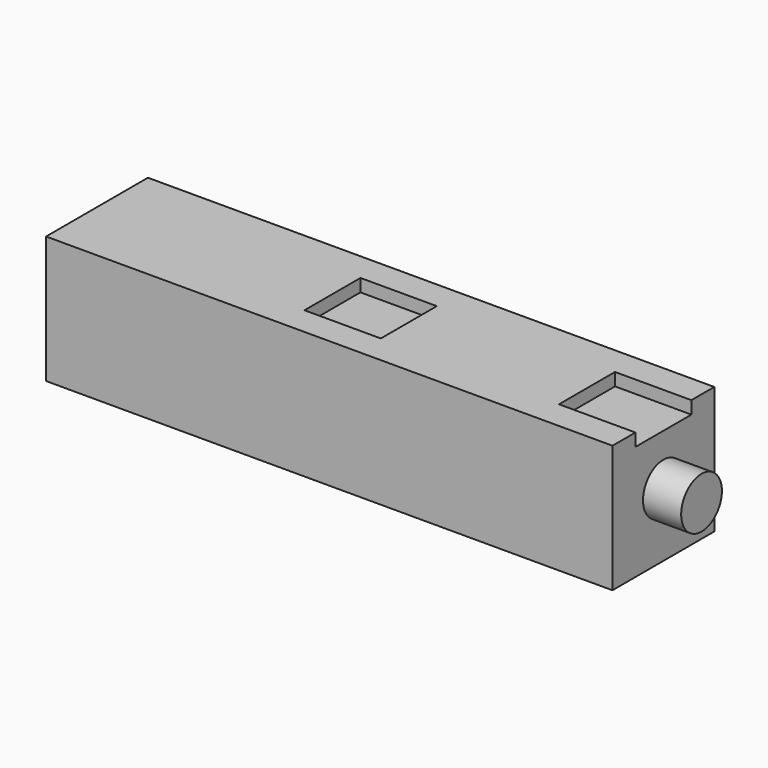
from build123d import *

# Parameters (mm, degrees)
SKETCH_W        = 95
SKETCH_H        = 20
PAD_DEPTH       = 20
SKETCH001_W     = 20
SKETCH001_H     = 20
SKETCH001_R     = 4
POCKET_DEPTH    = 6
SKETCH003_W     = 12
SKETCH003_H     = 11
POCKET001_DEPTH = 2


with BuildPart() as part:
    # Sketch → Pad (new body)
    with BuildSketch(Plane.XY):
        Rectangle(SKETCH_W, SKETCH_H)
    extrude(amount=-PAD_DEPTH)

    # Sketch001 (on Face2 of Pad) → Pocket (cut)
    with BuildSketch(Plane.YZ.offset(47.5)):
        with Locations((0, -10)):
            Rectangle(SKETCH001_W, SKETCH001_H)
        with Locations((0, -10)):
            Circle(SKETCH001_R, mode=Mode.SUBTRACT)
    extrude(amount=-POCKET_DEPTH, mode=Mode.SUBTRACT)

    # Sketch003 (on Face2 of Pocket) → Pocket001 (cut)
    with BuildSketch(Plane.XY):
        with Locations((35.5, 0)):
            Rectangle(SKETCH003_W, SKETCH003_H)
        with Locations((-4.5, 0)):
            Rectangle(SKETCH003_W, SKETCH003_H)
    extrude(amount=-POCKET001_DEPTH, mode=Mode.SUBTRACT)


solid = part.part
